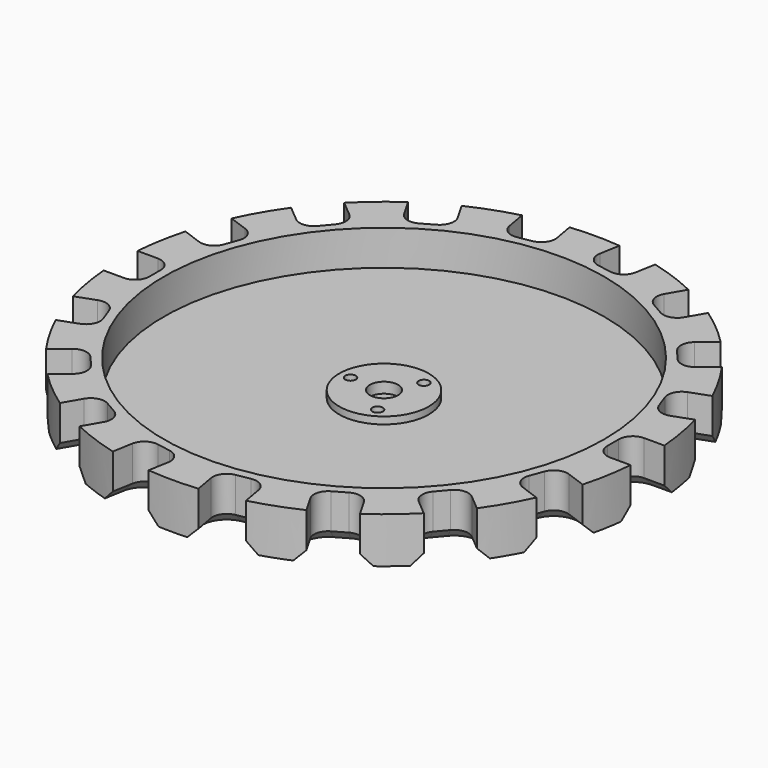
from build123d import *

# Parameters (mm, degrees)
F0_R     = 62.5
F0_R_2   = 12.7
F0_R_3   = 1.5
F0_R_4   = 4
F1_DEPTH = 3
F2_DEPTH = 13
F3_DEPTH = 5
F4_DEPTH = 2
F5_SIZE2 = 3
F5_SIZE  = 3


with BuildPart() as f1:
    # F0 (on Top) → F1 (new body)
    with BuildSketch(Plane.XY):
        Circle(F0_R)
        Circle(F0_R_2, mode=Mode.SUBTRACT)
        Circle(F0_R_2)
        with Locations((-4.75, -8.227241)):
            Circle(F0_R_3, mode=Mode.SUBTRACT)
        with Locations((4.75, -8.227241)):
            Circle(F0_R_3, mode=Mode.SUBTRACT)
        with Locations((-9.5, 0)):
            Circle(F0_R_3, mode=Mode.SUBTRACT)
        with Locations((-4.75, 8.227241)):
            Circle(F0_R_3, mode=Mode.SUBTRACT)
        Circle(F0_R_4, mode=Mode.SUBTRACT)
        with Locations((4.75, 8.227241)):
            Circle(F0_R_3, mode=Mode.SUBTRACT)
        with Locations((9.5, 0)):
            Circle(F0_R_3, mode=Mode.SUBTRACT)
        with Locations((9.5, 0)):
            Circle(F0_R_3)
        with Locations((4.75, 8.227241)):
            Circle(F0_R_3)
        with Locations((-4.75, 8.227241)):
            Circle(F0_R_3)
        with Locations((-9.5, 0)):
            Circle(F0_R_3)
        with Locations((-4.75, -8.227241)):
            Circle(F0_R_3)
        with Locations((4.75, -8.227241)):
            Circle(F0_R_3)
    extrude(amount=F1_DEPTH)

    # F0 (on Top) → F2 (join)
    with BuildSketch(Plane.XY):
        with BuildLine():
            Line((69, 6), (74.759615, 6))
            ThreePointArc((74.759615, 6), (73.860581, 13.023613), (72.303179, 19.931138))
            Line((72.303179, 19.931138), (66.890912, 17.961234))
            ThreePointArc((66.890912, 17.961234), (63.832358, 18.094773), (61.764061, 20.351924))
            Line((61.764061, 20.351924), (60.39598, 24.110695))
            ThreePointArc((60.39598, 24.110695), (60.529519, 27.169248), (62.78667, 29.237546))
            Line((62.78667, 29.237546), (68.198937, 31.20745))
            ThreePointArc((68.198937, 31.20745), (64.951905, 37.5), (61.125913, 43.458287))
            Line((61.125913, 43.458287), (56.713792, 39.756078))
            ThreePointArc((56.713792, 39.756078), (53.794019, 38.835477), (51.078464, 40.249106))
            Line((51.078464, 40.249106), (48.507314, 43.313284))
            ThreePointArc((48.507314, 43.313284), (47.586713, 46.233057), (49.000341, 48.948612))
            Line((49.000341, 48.948612), (53.412462, 52.650821))
            ThreePointArc((53.412462, 52.650821), (48.209071, 57.453333), (42.57596, 61.743726))
            Line((42.57596, 61.743726), (39.696152, 56.755753))
            ThreePointArc((39.696152, 56.755753), (37.267327, 54.89205), (34.232051, 55.291651))
            Line((34.232051, 55.291651), (30.767949, 57.291651))
            ThreePointArc((30.767949, 57.291651), (28.904246, 59.720477), (29.303848, 62.755753))
            Line((29.303848, 62.755753), (32.183655, 67.743726))
            ThreePointArc((32.183655, 67.743726), (25.651511, 70.476947), (18.890717, 72.581959))
            Line((18.890717, 72.581959), (17.890571, 66.909846))
            ThreePointArc((17.890571, 66.909846), (16.245646, 64.32783), (13.256747, 63.665208))
            Line((13.256747, 63.665208), (9.317516, 64.3598))
            ThreePointArc((9.317516, 64.3598), (6.735501, 66.004726), (6.072878, 68.993624))
            Line((6.072878, 68.993624), (7.073024, 74.665737))
            ThreePointArc((7.073024, 74.665737), (0, 75), (-7.073024, 74.665737))
            Line((-7.073024, 74.665737), (-6.072878, 68.993624))
            ThreePointArc((-6.072878, 68.993624), (-6.735501, 66.004726), (-9.317516, 64.3598))
            Line((-9.317516, 64.3598), (-13.256747, 63.665208))
            ThreePointArc((-13.256747, 63.665208), (-16.245646, 64.32783), (-17.890571, 66.909846))
            Line((-17.890571, 66.909846), (-18.890717, 72.581959))
            ThreePointArc((-18.890717, 72.581959), (-25.651511, 70.476947), (-32.183655, 67.743726))
            Line((-32.183655, 67.743726), (-29.303848, 62.755753))
            ThreePointArc((-29.303848, 62.755753), (-28.904246, 59.720477), (-30.767949, 57.291651))
            Line((-30.767949, 57.291651), (-34.232051, 55.291651))
            ThreePointArc((-34.232051, 55.291651), (-37.267327, 54.89205), (-39.696152, 56.755753))
            Line((-39.696152, 56.755753), (-42.57596, 61.743726))
            ThreePointArc((-42.57596, 61.743726), (-48.209071, 57.453333), (-53.412462, 52.650821))
            Line((-53.412462, 52.650821), (-49.000341, 48.948612))
            ThreePointArc((-49.000341, 48.948612), (-47.586713, 46.233057), (-48.507314, 43.313284))
            Line((-48.507314, 43.313284), (-51.078464, 40.249106))
            ThreePointArc((-51.078464, 40.249106), (-53.794019, 38.835477), (-56.713792, 39.756078))
            Line((-56.713792, 39.756078), (-61.125913, 43.458287))
            ThreePointArc((-61.125913, 43.458287), (-64.951905, 37.5), (-68.198937, 31.20745))
            Line((-68.198937, 31.20745), (-62.78667, 29.237546))
            ThreePointArc((-62.78667, 29.237546), (-60.529519, 27.169248), (-60.39598, 24.110695))
            Line((-60.39598, 24.110695), (-61.764061, 20.351924))
            ThreePointArc((-61.764061, 20.351924), (-63.832358, 18.094773), (-66.890912, 17.961234))
            Line((-66.890912, 17.961234), (-72.303179, 19.931138))
            ThreePointArc((-72.303179, 19.931138), (-73.860581, 13.023613), (-74.759615, 6))
            Line((-74.759615, 6), (-69, 6))
            ThreePointArc((-69, 6), (-66.171573, 4.828427), (-65, 2))
            Line((-65, 2), (-65, -2))
            ThreePointArc((-65, -2), (-66.171573, -4.828427), (-69, -6))
            Line((-69, -6), (-74.759615, -6))
            ThreePointArc((-74.759615, -6), (-73.860581, -13.023613), (-72.303179, -19.931138))
            Line((-72.303179, -19.931138), (-66.890912, -17.961234))
            ThreePointArc((-66.890912, -17.961234), (-63.832358, -18.094773), (-61.764061, -20.351924))
            Line((-61.764061, -20.351924), (-60.39598, -24.110695))
            ThreePointArc((-60.39598, -24.110695), (-60.529519, -27.169248), (-62.78667, -29.237546))
            Line((-62.78667, -29.237546), (-68.198937, -31.20745))
            ThreePointArc((-68.198937, -31.20745), (-64.951905, -37.5), (-61.125913, -43.458287))
            Line((-61.125913, -43.458287), (-56.713792, -39.756078))
            ThreePointArc((-56.713792, -39.756078), (-53.794019, -38.835477), (-51.078464, -40.249106))
            Line((-51.078464, -40.249106), (-48.507314, -43.313284))
            ThreePointArc((-48.507314, -43.313284), (-47.586713, -46.233057), (-49.000341, -48.948612))
            Line((-49.000341, -48.948612), (-53.412462, -52.650821))
            ThreePointArc((-53.412462, -52.650821), (-48.209071, -57.453333), (-42.57596, -61.743726))
            Line((-42.57596, -61.743726), (-39.696152, -56.755753))
            ThreePointArc((-39.696152, -56.755753), (-37.267327, -54.89205), (-34.232051, -55.291651))
            Line((-34.232051, -55.291651), (-30.767949, -57.291651))
            ThreePointArc((-30.767949, -57.291651), (-28.904246, -59.720477), (-29.303848, -62.755753))
            Line((-29.303848, -62.755753), (-32.183655, -67.743726))
            ThreePointArc((-32.183655, -67.743726), (-25.651511, -70.476947), (-18.890717, -72.581959))
            Line((-18.890717, -72.581959), (-17.890571, -66.909846))
            ThreePointArc((-17.890571, -66.909846), (-16.245646, -64.32783), (-13.256747, -63.665208))
            Line((-13.256747, -63.665208), (-9.317516, -64.3598))
            ThreePointArc((-9.317516, -64.3598), (-6.735501, -66.004726), (-6.072878, -68.993624))
            Line((-6.072878, -68.993624), (-7.073024, -74.665737))
            ThreePointArc((-7.073024, -74.665737), (0, -75), (7.073024, -74.665737))
            Line((7.073024, -74.665737), (6.072878, -68.993624))
            ThreePointArc((6.072878, -68.993624), (6.735501, -66.004726), (9.317516, -64.3598))
            Line((9.317516, -64.3598), (13.256747, -63.665208))
            ThreePointArc((13.256747, -63.665208), (16.245646, -64.32783), (17.890571, -66.909846))
            Line((17.890571, -66.909846), (18.890717, -72.581959))
            ThreePointArc((18.890717, -72.581959), (25.651511, -70.476947), (32.183655, -67.743726))
            Line((32.183655, -67.743726), (29.303848, -62.755753))
            ThreePointArc((29.303848, -62.755753), (28.904246, -59.720477), (30.767949, -57.291651))
            Line((30.767949, -57.291651), (34.232051, -55.291651))
            ThreePointArc((34.232051, -55.291651), (37.267327, -54.89205), (39.696152, -56.755753))
            Line((39.696152, -56.755753), (42.57596, -61.743726))
            ThreePointArc((42.57596, -61.743726), (48.209071, -57.453333), (53.412462, -52.650821))
            Line((53.412462, -52.650821), (49.000341, -48.948612))
            ThreePointArc((49.000341, -48.948612), (47.586713, -46.233057), (48.507314, -43.313284))
            Line((48.507314, -43.313284), (51.078464, -40.249106))
            ThreePointArc((51.078464, -40.249106), (53.794019, -38.835477), (56.713792, -39.756078))
            Line((56.713792, -39.756078), (61.125913, -43.458287))
            ThreePointArc((61.125913, -43.458287), (64.951905, -37.5), (68.198937, -31.20745))
            Line((68.198937, -31.20745), (62.78667, -29.237546))
            ThreePointArc((62.78667, -29.237546), (60.529519, -27.169248), (60.39598, -24.110695))
            Line((60.39598, -24.110695), (61.764061, -20.351924))
            ThreePointArc((61.764061, -20.351924), (63.832358, -18.094773), (66.890912, -17.961234))
            Line((66.890912, -17.961234), (72.303179, -19.931138))
            ThreePointArc((72.303179, -19.931138), (73.860581, -13.023613), (74.759615, -6))
            Line((74.759615, -6), (69, -6))
            ThreePointArc((69, -6), (66.171573, -4.828427), (65, -2))
            Line((65, -2), (65, 2))
            ThreePointArc((65, 2), (66.171573, 4.828427), (69, 6))
        make_face()
        Circle(F0_R, mode=Mode.SUBTRACT)
    extrude(amount=F2_DEPTH)

    # F0 (on Top) → F3 (join)
    with BuildSketch(Plane.XY):
        Circle(F0_R_2)
        with Locations((-4.75, -8.227241)):
            Circle(F0_R_3, mode=Mode.SUBTRACT)
        with Locations((4.75, -8.227241)):
            Circle(F0_R_3, mode=Mode.SUBTRACT)
        with Locations((-9.5, 0)):
            Circle(F0_R_3, mode=Mode.SUBTRACT)
        with Locations((-4.75, 8.227241)):
            Circle(F0_R_3, mode=Mode.SUBTRACT)
        Circle(F0_R_4, mode=Mode.SUBTRACT)
        with Locations((4.75, 8.227241)):
            Circle(F0_R_3, mode=Mode.SUBTRACT)
        with Locations((9.5, 0)):
            Circle(F0_R_3, mode=Mode.SUBTRACT)
        with Locations((-4.75, 8.227241)):
            Circle(F0_R_3)
        with Locations((9.5, 0)):
            Circle(F0_R_3)
        with Locations((-4.75, -8.227241)):
            Circle(F0_R_3)
    extrude(amount=F3_DEPTH)

    # F0 (on Top) → F4 (join)
    with BuildSketch(Plane.XY):
        Circle(F0_R_4)
    extrude(amount=F4_DEPTH)

    # F5
    f5_edges = [f1.edges().sort_by_distance(p)[0] for p in [
        (-6.572951, -71.829681, 0),
        (-30.743751, -65.249739, 0),
        (-51.206401, -50.799716, 0),
        (-65.492804, -30.222498, 0),
        (-69.597045, 18.946186, 0),
        (-58.919853, 41.607183, 0),
        (-41.136056, 59.249739, 0),
        (-18.390644, 69.745903, 0),
        (6.572951, 71.829681, 0),
        (30.743751, 65.249739, 0),
        (58.919853, 41.607183, 0),
        (65.492804, 30.222498, 0),
        (71.879807, 6, 0),
        (69.597045, -18.946186, 0),
        (6.572951, -71.829681, 0),
        (30.743751, -65.249739, 0),
        (51.206401, -50.799716, 0),
        (-65, 0, 0),
    ]]
    chamfer(f5_edges, length=F5_SIZE, length2=F5_SIZE2)


solid = f1.part
